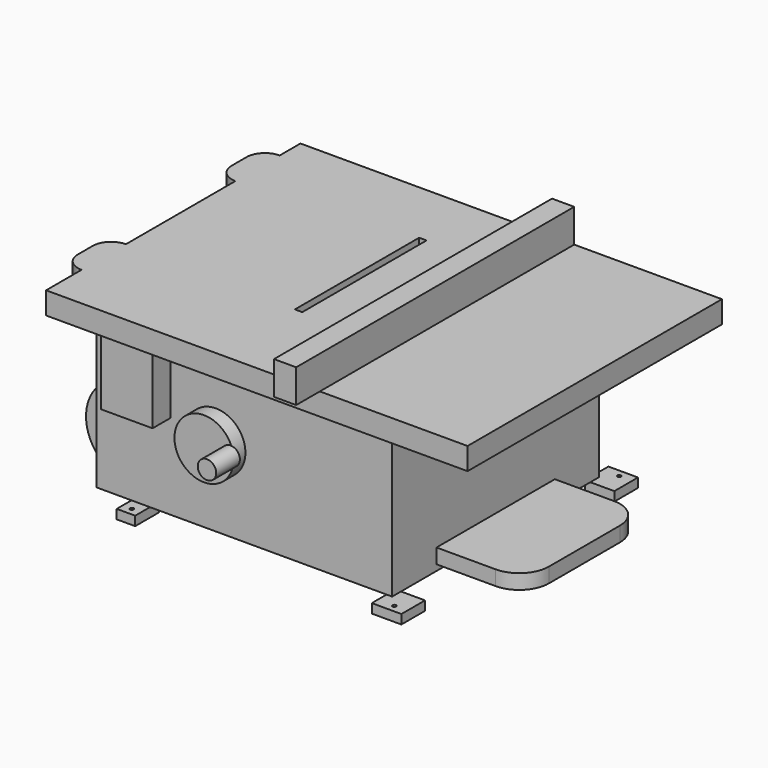
from build123d import *

# Parameters (mm, degrees)
F0_W      = 508
F0_H      = 444.5
F1_DEPTH  = 282.575
F2_W      = 31.75
F2_H      = 50.8
F2_W_2    = 50.8
F3_DEPTH  = 15.875
F4_W      = 723.9
F4_H      = 546.1
F5_DEPTH  = 38.1
F7_W      = 12.7
F7_H      = 266.7
F8_DEPTH  = 25.4
F9_W      = 38.1
F9_H      = 596.9
F10_DEPTH = 57.15
F11_W     = 254
F11_H     = 25.4
F12_DEPTH = 152.4
F13_R     = 50.8
F15_DEPTH = 25.4
F17_R     = 76.2
F18_DEPTH = 31.75
F20_R     = 76.2
F21_DEPTH = 31.75
F22_R     = 3.175
F23_DEPTH = 25.4
F24_R     = 19.05
F25_DEPTH = 25.4
F26_R     = 50.8
F27_DEPTH = 25.4
F28_R     = 15.875
F29_DEPTH = 50.8
F30_W     = 88.9
F30_H     = 114.3
F31_DEPTH = 38.1


with BuildPart() as f1:
    # F0 (on Top) → F1 (new body)
    with BuildSketch(Plane.XY):
        with Locations((254, 222.25)):
            Rectangle(F0_W, F0_H)
    extrude(amount=F1_DEPTH)

    # F2 (on face) → F3 (join)
    with BuildSketch(Plane(origin=(0, 0, 0), x_dir=(1, 0, 0), z_dir=(0, 0, -1))):
        with Locations((76.2, 6.35)):
            Rectangle(F2_W, F2_H)
        with Locations((523.875, 6.35)):
            Rectangle(F2_W_2, F2_H)
        with Locations((76.2, -450.85)):
            Rectangle(F2_W, F2_H)
        with Locations((523.875, -450.85)):
            Rectangle(F2_W_2, F2_H)
    extrude(amount=F3_DEPTH)

    # F4 (on face) → F5 (join)
    with BuildSketch(Plane.XY.offset(282.575)):
        with Locations((336.55, 196.85)):
            Rectangle(F4_W, F4_H)
    extrude(amount=F5_DEPTH)

    # F7 (on face) → F8 (cut)
    with BuildSketch(Plane.XY.offset(320.675)):
        with Locations((276.225, 222.25)):
            Rectangle(F7_W, F7_H)
    extrude(amount=-F8_DEPTH, mode=Mode.SUBTRACT)

    # F9 (on face) → F10 (join)
    with BuildSketch(Plane.XY.offset(320.675)):
        with Locations((425.7404655218, 171.45)):
            Rectangle(F9_W, F9_H)
    extrude(amount=F10_DEPTH)

    # F11 (on face) → F12 (join)
    with BuildSketch(Plane.YZ.offset(508)):
        with Locations((222.25, 22.86)):
            Rectangle(F11_W, F11_H)
    extrude(amount=F12_DEPTH)

    # F13
    f13_edges = [f1.edges().sort_by_distance(p)[0] for p in [
        (660.4, 95.25, 22.86),
        (660.4, 349.25, 22.86),
    ]]
    fillet(f13_edges, radius=F13_R)

    # F14 (on face) → F15 (join)
    with BuildSketch(Plane.XY.offset(320.675)):
        with BuildLine():
            ThreePointArc((-57.15, 31.75), (-47.8506403027, 9.2993596973), (-25.4, 0))
            Line((-25.4, 0), (-25.4, 95.25))
            ThreePointArc((-25.4, 95.25), (-47.8506403027, 85.9506403027), (-57.15, 63.5))
            Line((-57.15, 63.5), (-57.15, 31.75))
        make_face()
        with BuildLine():
            Line((-25.4, 330.2), (-25.4, 425.45))
            ThreePointArc((-25.4, 425.45), (-47.8506403027, 416.1506403027), (-57.15, 393.7))
            Line((-57.15, 393.7), (-57.15, 361.95))
            ThreePointArc((-57.15, 361.95), (-47.8506403027, 339.4993596973), (-25.4, 330.2))
        make_face()
    extrude(amount=-F15_DEPTH)

    # F17 (on offset) → F18 (join)
    with BuildSketch(Plane.XZ.offset(-57.15)):
        with Locations((12.7, 63.5)):
            Circle(F17_R)
    extrude(amount=-F18_DEPTH)

    # F20 (on offset) → F21 (join)
    with BuildSketch(Plane(origin=(0, 387.35, 0), x_dir=(-1, 0, 0), z_dir=(0, 1, 0))):
        with Locations((-12.7, 63.5)):
            Circle(F20_R)
    extrude(amount=-F21_DEPTH)

    # F22 (on face) → F23 (cut)
    with BuildSketch(Plane(origin=(0, 0, -15.875), x_dir=(1, 0, 0), z_dir=(0, 0, -1))):
        with Locations((76.2, 19.05)):
            Circle(F22_R)
        with Locations((76.2, -463.55)):
            Circle(F22_R)
        with Locations((527.05, -463.55)):
            Circle(F22_R)
        with Locations((527.05, 19.05)):
            Circle(F22_R)
    extrude(amount=-F23_DEPTH, mode=Mode.SUBTRACT)

    # F24 (on face) → F25 (join)
    with BuildSketch(Plane.XZ):
        with Locations((225.552, 152.4)):
            Circle(F24_R)
    extrude(amount=F25_DEPTH)

    # F26 (on face) → F27 (join)
    with BuildSketch(Plane.XZ.offset(25.4)):
        with Locations((225.552, 152.4)):
            Circle(F26_R)
    extrude(amount=F27_DEPTH)

    # F28 (on face) → F29 (join)
    with BuildSketch(Plane.XZ.offset(50.8)):
        with Locations((271.2737321854, 156.2635451555)):
            Circle(F28_R)
    extrude(amount=F29_DEPTH)

    # F30 (on face) → F31 (join)
    with BuildSketch(Plane.XZ):
        with Locations((82.55, 203.2)):
            Rectangle(F30_W, F30_H)
    extrude(amount=F31_DEPTH)


solid = f1.part
